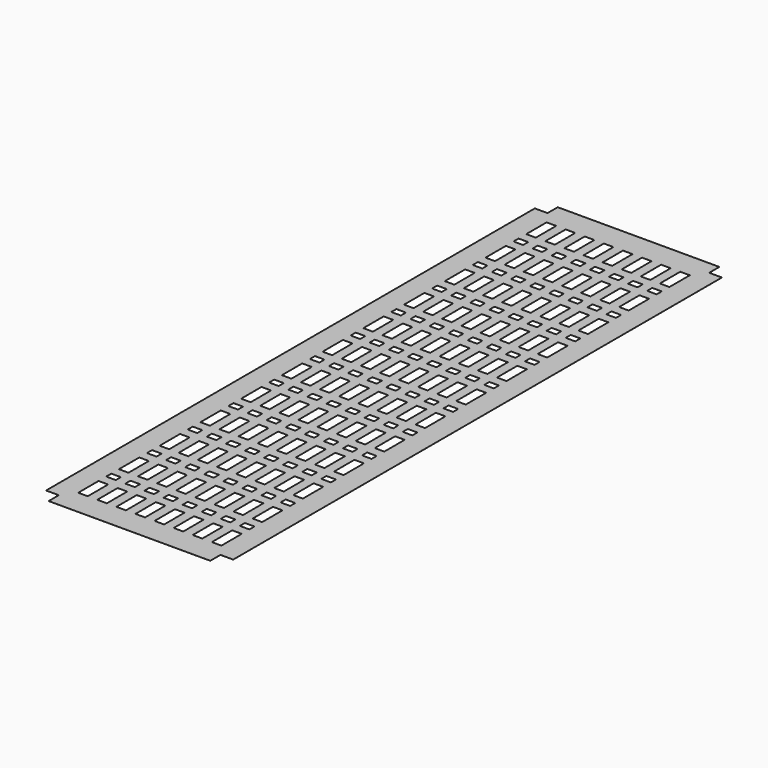
from build123d import *

# Parameters (mm, degrees)
F1_DEPTH = 0.0254
F2_W     = 9.525
F2_H     = 25.4
F2_H_2   = 6.35
F3_DEPTH = 0.0264


with BuildPart() as f1:
    # F0 (on Top) → F1 (new body)
    with BuildSketch(Plane.XY):
        Polygon((0, 12.7), (0, 0), (-12.7, 0), (-12.7, -609.6), (0, -609.6), (0, -622.3), (161.29, -622.3), (161.29, -609.6), (173.99, -609.6), (173.99, 0), (161.29, 0), (161.29, 12.7), align=None)
    extrude(amount=F1_DEPTH)

    # F2 (on face) → F3 (cut, through all)
    with BuildSketch(Plane.XY.offset(0.0254)):
        with Locations((71.12, -25.4)):
            Rectangle(F2_W, F2_H)
        with Locations((71.12, -50.8)):
            Rectangle(F2_W, F2_H_2)
        with Locations((71.12, -76.2)):
            Rectangle(F2_W, F2_H)
        with Locations((71.12, -101.6)):
            Rectangle(F2_W, F2_H_2)
        with Locations((71.12, -127)):
            Rectangle(F2_W, F2_H)
        with Locations((71.12, -152.4)):
            Rectangle(F2_W, F2_H_2)
        with Locations((71.12, -177.8)):
            Rectangle(F2_W, F2_H)
        with Locations((71.12, -203.2)):
            Rectangle(F2_W, F2_H_2)
        with Locations((71.12, -228.6)):
            Rectangle(F2_W, F2_H)
        with Locations((71.12, -254)):
            Rectangle(F2_W, F2_H_2)
        with Locations((71.12, -279.4)):
            Rectangle(F2_W, F2_H)
        with Locations((71.12, -304.8)):
            Rectangle(F2_W, F2_H_2)
        with Locations((71.12, -330.2)):
            Rectangle(F2_W, F2_H)
        with Locations((71.12, -355.6)):
            Rectangle(F2_W, F2_H_2)
        with Locations((71.12, -381)):
            Rectangle(F2_W, F2_H)
        with Locations((71.12, -406.4)):
            Rectangle(F2_W, F2_H_2)
        with Locations((71.12, -431.8)):
            Rectangle(F2_W, F2_H)
        with Locations((71.12, -457.2)):
            Rectangle(F2_W, F2_H_2)
        with Locations((71.12, -482.6)):
            Rectangle(F2_W, F2_H)
        with Locations((71.12, -508)):
            Rectangle(F2_W, F2_H_2)
        with Locations((71.12, -533.4)):
            Rectangle(F2_W, F2_H)
        with Locations((71.12, -558.8)):
            Rectangle(F2_W, F2_H_2)
        with Locations((71.12, -584.2)):
            Rectangle(F2_W, F2_H)
        with Locations((52.07, -25.4)):
            Rectangle(F2_W, F2_H)
        with Locations((52.07, -50.8)):
            Rectangle(F2_W, F2_H_2)
        with Locations((52.07, -76.2)):
            Rectangle(F2_W, F2_H)
        with Locations((52.07, -101.6)):
            Rectangle(F2_W, F2_H_2)
        with Locations((52.07, -127)):
            Rectangle(F2_W, F2_H)
        with Locations((52.07, -152.4)):
            Rectangle(F2_W, F2_H_2)
        with Locations((52.07, -177.8)):
            Rectangle(F2_W, F2_H)
        with Locations((52.07, -203.2)):
            Rectangle(F2_W, F2_H_2)
        with Locations((52.07, -228.6)):
            Rectangle(F2_W, F2_H)
        with Locations((52.07, -254)):
            Rectangle(F2_W, F2_H_2)
        with Locations((52.07, -279.4)):
            Rectangle(F2_W, F2_H)
        with Locations((52.07, -304.8)):
            Rectangle(F2_W, F2_H_2)
        with Locations((52.07, -330.2)):
            Rectangle(F2_W, F2_H)
        with Locations((52.07, -355.6)):
            Rectangle(F2_W, F2_H_2)
        with Locations((52.07, -381)):
            Rectangle(F2_W, F2_H)
        with Locations((52.07, -406.4)):
            Rectangle(F2_W, F2_H_2)
        with Locations((52.07, -431.8)):
            Rectangle(F2_W, F2_H)
        with Locations((52.07, -457.2)):
            Rectangle(F2_W, F2_H_2)
        with Locations((52.07, -482.6)):
            Rectangle(F2_W, F2_H)
        with Locations((52.07, -508)):
            Rectangle(F2_W, F2_H_2)
        with Locations((52.07, -533.4)):
            Rectangle(F2_W, F2_H)
        with Locations((52.07, -558.8)):
            Rectangle(F2_W, F2_H_2)
        with Locations((52.07, -584.2)):
            Rectangle(F2_W, F2_H)
        with Locations((33.02, -25.4)):
            Rectangle(F2_W, F2_H)
        with Locations((33.02, -50.8)):
            Rectangle(F2_W, F2_H_2)
        with Locations((33.02, -76.2)):
            Rectangle(F2_W, F2_H)
        with Locations((33.02, -101.6)):
            Rectangle(F2_W, F2_H_2)
        with Locations((33.02, -127)):
            Rectangle(F2_W, F2_H)
        with Locations((33.02, -152.4)):
            Rectangle(F2_W, F2_H_2)
        with Locations((33.02, -177.8)):
            Rectangle(F2_W, F2_H)
        with Locations((33.02, -203.2)):
            Rectangle(F2_W, F2_H_2)
        with Locations((33.02, -228.6)):
            Rectangle(F2_W, F2_H)
        with Locations((33.02, -254)):
            Rectangle(F2_W, F2_H_2)
        with Locations((33.02, -279.4)):
            Rectangle(F2_W, F2_H)
        with Locations((33.02, -304.8)):
            Rectangle(F2_W, F2_H_2)
        with Locations((33.02, -330.2)):
            Rectangle(F2_W, F2_H)
        with Locations((33.02, -355.6)):
            Rectangle(F2_W, F2_H_2)
        with Locations((33.02, -381)):
            Rectangle(F2_W, F2_H)
        with Locations((33.02, -406.4)):
            Rectangle(F2_W, F2_H_2)
        with Locations((33.02, -431.8)):
            Rectangle(F2_W, F2_H)
        with Locations((33.02, -457.2)):
            Rectangle(F2_W, F2_H_2)
        with Locations((33.02, -482.6)):
            Rectangle(F2_W, F2_H)
        with Locations((33.02, -508)):
            Rectangle(F2_W, F2_H_2)
        with Locations((33.02, -533.4)):
            Rectangle(F2_W, F2_H)
        with Locations((33.02, -558.8)):
            Rectangle(F2_W, F2_H_2)
        with Locations((33.02, -584.2)):
            Rectangle(F2_W, F2_H)
        with Locations((90.17, -101.6)):
            Rectangle(F2_W, F2_H_2)
        with Locations((90.17, -228.6)):
            Rectangle(F2_W, F2_H)
        with Locations((90.17, -254)):
            Rectangle(F2_W, F2_H_2)
        with Locations((90.17, -127)):
            Rectangle(F2_W, F2_H)
        with Locations((109.22, -558.8)):
            Rectangle(F2_W, F2_H_2)
        with Locations((109.22, -50.8)):
            Rectangle(F2_W, F2_H_2)
        with Locations((90.17, -152.4)):
            Rectangle(F2_W, F2_H_2)
        with Locations((90.17, -76.2)):
            Rectangle(F2_W, F2_H)
        with Locations((109.22, -254)):
            Rectangle(F2_W, F2_H_2)
        with Locations((128.27, -508)):
            Rectangle(F2_W, F2_H_2)
        with Locations((109.22, -152.4)):
            Rectangle(F2_W, F2_H_2)
        with Locations((128.27, -101.6)):
            Rectangle(F2_W, F2_H_2)
        with Locations((109.22, -457.2)):
            Rectangle(F2_W, F2_H_2)
        with Locations((90.17, -406.4)):
            Rectangle(F2_W, F2_H_2)
        with Locations((128.27, -203.2)):
            Rectangle(F2_W, F2_H_2)
        with Locations((128.27, -406.4)):
            Rectangle(F2_W, F2_H_2)
        with Locations((128.27, -533.4)):
            Rectangle(F2_W, F2_H)
        with Locations((90.17, -355.6)):
            Rectangle(F2_W, F2_H_2)
        with Locations((109.22, -203.2)):
            Rectangle(F2_W, F2_H_2)
        with Locations((90.17, -457.2)):
            Rectangle(F2_W, F2_H_2)
        with Locations((90.17, -304.8)):
            Rectangle(F2_W, F2_H_2)
        with Locations((109.22, -101.6)):
            Rectangle(F2_W, F2_H_2)
        with Locations((109.22, -25.4)):
            Rectangle(F2_W, F2_H)
        with Locations((109.22, -406.4)):
            Rectangle(F2_W, F2_H_2)
        with Locations((109.22, -304.8)):
            Rectangle(F2_W, F2_H_2)
        with Locations((90.17, -558.8)):
            Rectangle(F2_W, F2_H_2)
        with Locations((90.17, -203.2)):
            Rectangle(F2_W, F2_H_2)
        with Locations((90.17, -482.6)):
            Rectangle(F2_W, F2_H)
        with Locations((109.22, -533.4)):
            Rectangle(F2_W, F2_H)
        with Locations((109.22, -508)):
            Rectangle(F2_W, F2_H_2)
        with Locations((109.22, -127)):
            Rectangle(F2_W, F2_H)
        with Locations((128.27, -304.8)):
            Rectangle(F2_W, F2_H_2)
        with Locations((90.17, -25.4)):
            Rectangle(F2_W, F2_H)
        with Locations((90.17, -584.2)):
            Rectangle(F2_W, F2_H)
        with Locations((109.22, -431.8)):
            Rectangle(F2_W, F2_H)
        with Locations((128.27, -431.8)):
            Rectangle(F2_W, F2_H)
        with Locations((109.22, -355.6)):
            Rectangle(F2_W, F2_H_2)
        with Locations((90.17, -508)):
            Rectangle(F2_W, F2_H_2)
        with Locations((109.22, -76.2)):
            Rectangle(F2_W, F2_H)
        with Locations((109.22, -228.6)):
            Rectangle(F2_W, F2_H)
        with Locations((109.22, -330.2)):
            Rectangle(F2_W, F2_H)
        with Locations((128.27, -177.8)):
            Rectangle(F2_W, F2_H)
        with Locations((90.17, -533.4)):
            Rectangle(F2_W, F2_H)
        with Locations((128.27, -76.2)):
            Rectangle(F2_W, F2_H)
        with Locations((90.17, -177.8)):
            Rectangle(F2_W, F2_H)
        with Locations((109.22, -584.2)):
            Rectangle(F2_W, F2_H)
        with Locations((109.22, -177.8)):
            Rectangle(F2_W, F2_H)
        with Locations((128.27, -127)):
            Rectangle(F2_W, F2_H)
        with Locations((90.17, -50.8)):
            Rectangle(F2_W, F2_H_2)
        with Locations((128.27, -457.2)):
            Rectangle(F2_W, F2_H_2)
        with Locations((128.27, -482.6)):
            Rectangle(F2_W, F2_H)
        with Locations((128.27, -152.4)):
            Rectangle(F2_W, F2_H_2)
        with Locations((90.17, -431.8)):
            Rectangle(F2_W, F2_H)
        with Locations((128.27, -228.6)):
            Rectangle(F2_W, F2_H)
        with Locations((128.27, -558.8)):
            Rectangle(F2_W, F2_H_2)
        with Locations((128.27, -254)):
            Rectangle(F2_W, F2_H_2)
        with Locations((128.27, -355.6)):
            Rectangle(F2_W, F2_H_2)
        with Locations((128.27, -50.8)):
            Rectangle(F2_W, F2_H_2)
        with Locations((109.22, -279.4)):
            Rectangle(F2_W, F2_H)
        with Locations((128.27, -279.4)):
            Rectangle(F2_W, F2_H)
        with Locations((109.22, -381)):
            Rectangle(F2_W, F2_H)
        with Locations((90.17, -330.2)):
            Rectangle(F2_W, F2_H)
        with Locations((109.22, -482.6)):
            Rectangle(F2_W, F2_H)
        with Locations((128.27, -25.4)):
            Rectangle(F2_W, F2_H)
        with Locations((128.27, -330.2)):
            Rectangle(F2_W, F2_H)
        with Locations((128.27, -584.2)):
            Rectangle(F2_W, F2_H)
        with Locations((128.27, -381)):
            Rectangle(F2_W, F2_H)
        with Locations((90.17, -279.4)):
            Rectangle(F2_W, F2_H)
        with Locations((90.17, -381)):
            Rectangle(F2_W, F2_H)
        with Locations((13.97, -25.4)):
            Rectangle(F2_W, F2_H)
        with Locations((13.97, -50.8)):
            Rectangle(F2_W, F2_H_2)
        with Locations((13.97, -76.2)):
            Rectangle(F2_W, F2_H)
        with Locations((13.97, -101.6)):
            Rectangle(F2_W, F2_H_2)
        with Locations((13.97, -127)):
            Rectangle(F2_W, F2_H)
        with Locations((13.97, -152.4)):
            Rectangle(F2_W, F2_H_2)
        with Locations((13.97, -177.8)):
            Rectangle(F2_W, F2_H)
        with Locations((13.97, -203.2)):
            Rectangle(F2_W, F2_H_2)
        with Locations((13.97, -228.6)):
            Rectangle(F2_W, F2_H)
        with Locations((13.97, -254)):
            Rectangle(F2_W, F2_H_2)
        with Locations((13.97, -279.4)):
            Rectangle(F2_W, F2_H)
        with Locations((13.97, -304.8)):
            Rectangle(F2_W, F2_H_2)
        with Locations((13.97, -330.2)):
            Rectangle(F2_W, F2_H)
        with Locations((13.97, -355.6)):
            Rectangle(F2_W, F2_H_2)
        with Locations((13.97, -381)):
            Rectangle(F2_W, F2_H)
        with Locations((13.97, -406.4)):
            Rectangle(F2_W, F2_H_2)
        with Locations((13.97, -431.8)):
            Rectangle(F2_W, F2_H)
        with Locations((13.97, -457.2)):
            Rectangle(F2_W, F2_H_2)
        with Locations((13.97, -482.6)):
            Rectangle(F2_W, F2_H)
        with Locations((13.97, -508)):
            Rectangle(F2_W, F2_H_2)
        with Locations((13.97, -533.4)):
            Rectangle(F2_W, F2_H)
        with Locations((13.97, -558.8)):
            Rectangle(F2_W, F2_H_2)
        with Locations((13.97, -584.2)):
            Rectangle(F2_W, F2_H)
        with Locations((147.32, -304.8)):
            Rectangle(F2_W, F2_H_2)
        with Locations((147.32, -355.6)):
            Rectangle(F2_W, F2_H_2)
        with Locations((147.32, -406.4)):
            Rectangle(F2_W, F2_H_2)
        with Locations((147.32, -457.2)):
            Rectangle(F2_W, F2_H_2)
        with Locations((147.32, -508)):
            Rectangle(F2_W, F2_H_2)
        with Locations((147.32, -558.8)):
            Rectangle(F2_W, F2_H_2)
        with Locations((147.32, -254)):
            Rectangle(F2_W, F2_H_2)
        with Locations((147.32, -203.2)):
            Rectangle(F2_W, F2_H_2)
        with Locations((147.32, -152.4)):
            Rectangle(F2_W, F2_H_2)
        with Locations((147.32, -101.6)):
            Rectangle(F2_W, F2_H_2)
        with Locations((147.32, -50.8)):
            Rectangle(F2_W, F2_H_2)
        with Locations((147.32, -279.4)):
            Rectangle(F2_W, F2_H)
        with Locations((147.32, -330.2)):
            Rectangle(F2_W, F2_H)
        with Locations((147.32, -381)):
            Rectangle(F2_W, F2_H)
        with Locations((147.32, -431.8)):
            Rectangle(F2_W, F2_H)
        with Locations((147.32, -482.6)):
            Rectangle(F2_W, F2_H)
        with Locations((147.32, -533.4)):
            Rectangle(F2_W, F2_H)
        with Locations((147.32, -584.2)):
            Rectangle(F2_W, F2_H)
        with Locations((147.32, -228.6)):
            Rectangle(F2_W, F2_H)
        with Locations((147.32, -177.8)):
            Rectangle(F2_W, F2_H)
        with Locations((147.32, -127)):
            Rectangle(F2_W, F2_H)
        with Locations((147.32, -76.2)):
            Rectangle(F2_W, F2_H)
        with Locations((147.32, -25.4)):
            Rectangle(F2_W, F2_H)
    extrude(amount=-F3_DEPTH, mode=Mode.SUBTRACT)


solid = f1.part
